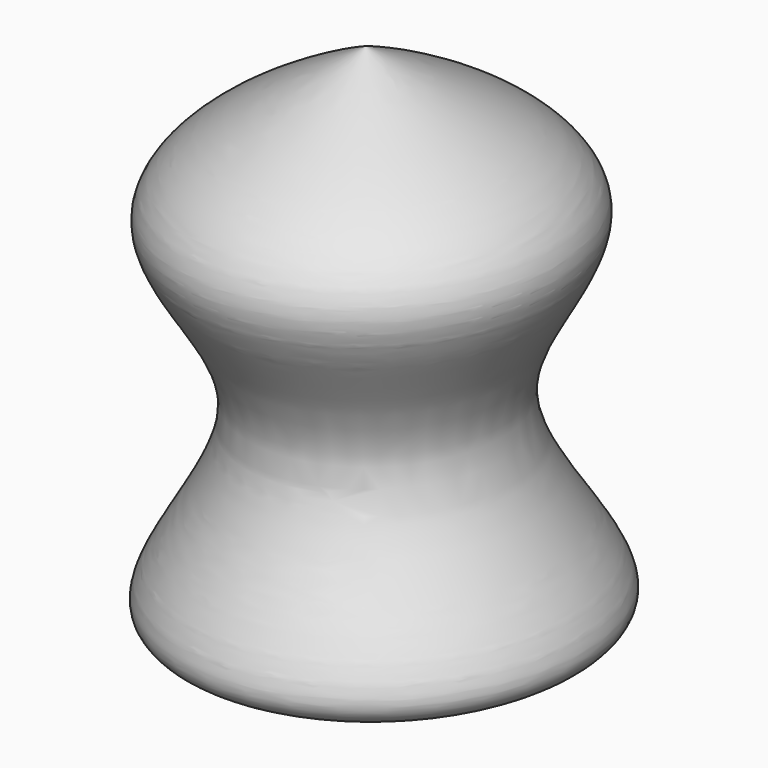
from build123d import *


with BuildPart() as f1:
    # F0 (on Front) → F1 (revolve)
    with BuildSketch(Plane.XZ):
        with BuildLine():
            Line((-12.7274217084, -23.8148178905), (-15.3815085068, 45.4863496125))
            add(Edge.make_bspline(
                [(-15.3815085068, 45.4863496125), (-27.8414545372, 38.7667897508), (-50.9692063371, 26.2941584644), (-20.9914034228, 3.925109629), (-51.357937688, -26.7193110796), (-25.7656553727, -24.795117012), (-12.7274217084, -23.8148178905)],
                knots=[0, 0, 0, 0, 0.2734739833, 0.507613628, 0.7491490406, 1, 1, 1, 1], degree=3))
        make_face()
    revolve(axis=Axis((-14.0544651076, 0, 10.835765861), (0.0382698102, 0, -0.9992674425)))


solid = f1.part
